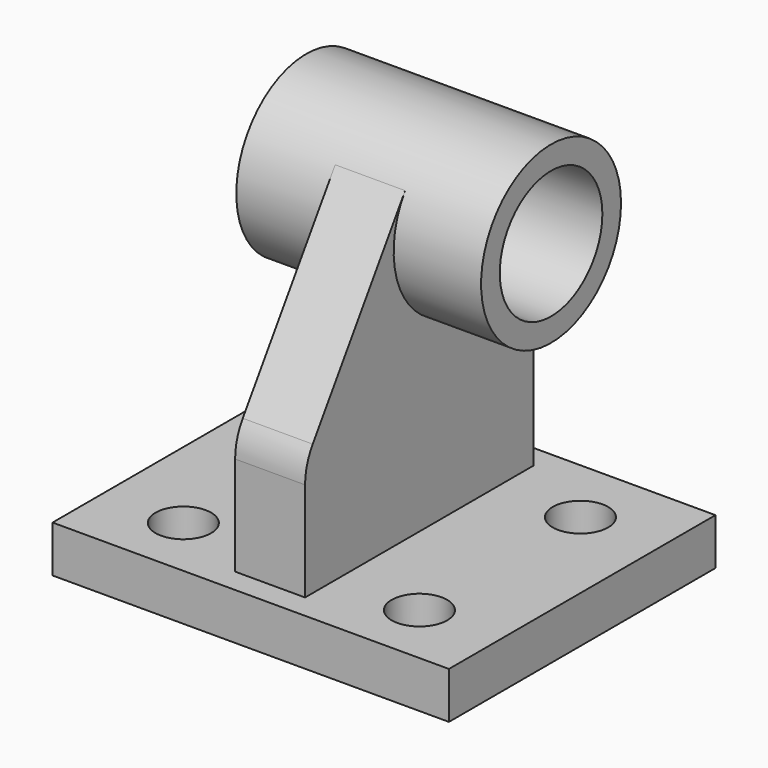
from build123d import *

# Parameters (mm, degrees)
F0_W     = 68
F0_H     = 57.15
F0_R     = 4.7625
F1_DEPTH = 8
F2_R     = 15
F2_R_2   = 11
F3_DEPTH = 21
F5_DEPTH = 6


with BuildPart() as f1:
    # F0 (on Top) → F1 (new body)
    with BuildSketch(Plane.XY):
        Rectangle(F0_W, F0_H)
        with Locations((-20.25, -17.7125)):
            Circle(F0_R, mode=Mode.SUBTRACT)
        with Locations((20.25, -17.7125)):
            Circle(F0_R, mode=Mode.SUBTRACT)
        with Locations((-20.25, 16.8125)):
            Circle(F0_R, mode=Mode.SUBTRACT)
        with Locations((20.25, 16.8125)):
            Circle(F0_R, mode=Mode.SUBTRACT)
    extrude(amount=F1_DEPTH)


with BuildPart() as f3:
    # F2 (on Right) → F3 (new body, symmetric)
    with BuildSketch(Plane.YZ):
        with Locations((9.575, 52.5)):
            Circle(F2_R)
        with Locations((9.575, 52.5)):
            Circle(F2_R_2, mode=Mode.SUBTRACT)
    extrude(amount=F3_DEPTH, both=True)


with BuildPart() as f5:
    # F4 (on Right) → F5 (new body, symmetric)
    with BuildSketch(Plane.YZ):
        with BuildLine():
            ThreePointArc((24.575, 52.5), (5.283303, 38.127062), (-2.969178, 60.724573))
            Line((-2.969178, 60.724573), (-22.787785, 30.497092))
            ThreePointArc((-22.787785, 30.497092), (-24.006958, 27.875175), (-24.425, 25.014043))
            Line((-24.425, 25.014043), (-24.425, 8))
            Line((-24.425, 8), (24.575, 8))
            Line((24.575, 8), (24.575, 52.5))
        make_face()
    extrude(amount=F5_DEPTH, both=True)


solid = Compound([f1.part, f3.part, f5.part])
